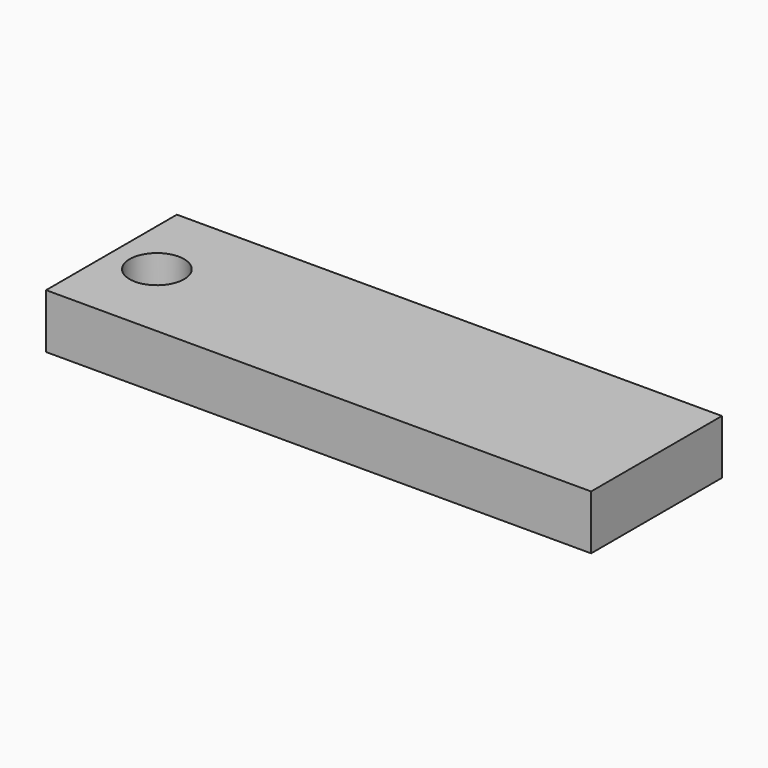
from build123d import *

# Parameters (mm, degrees)
F0_W     = 60
F0_H     = 18
F1_DEPTH = 6
F2_R     = 3
F3_DEPTH = 6


with BuildPart() as f1:
    # F0 (on Top) → F1 (new body)
    with BuildSketch(Plane.XY):
        Rectangle(F0_W, F0_H)
    extrude(amount=F1_DEPTH)

    # F2 (on face) → F3 (cut, through all)
    with BuildSketch(Plane.XY.offset(6)):
        with Locations((-25, 0)):
            Circle(F2_R)
    extrude(amount=-F3_DEPTH, mode=Mode.SUBTRACT)


solid = f1.part
